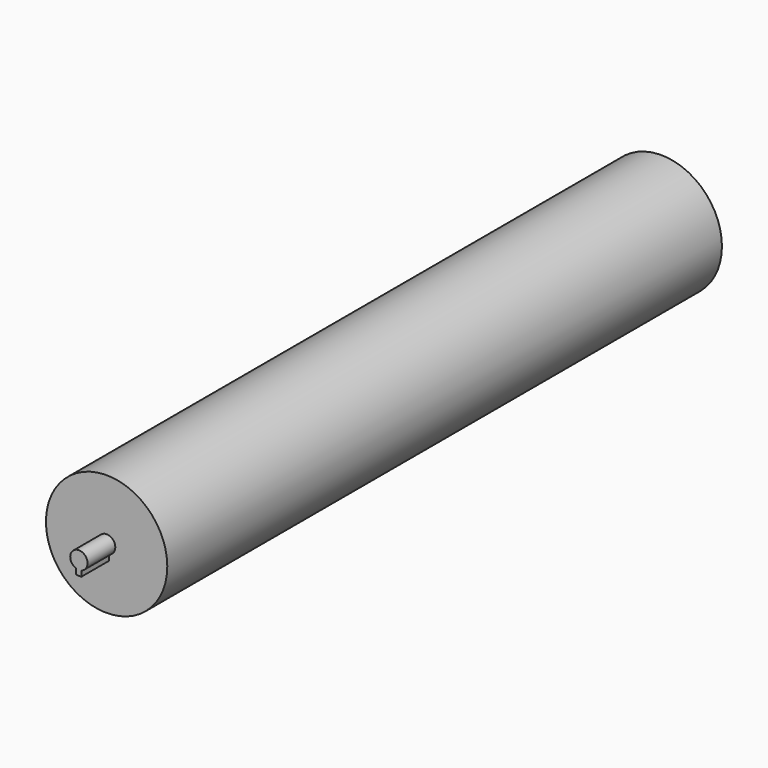
from build123d import *

# Parameters (mm, degrees)
F0_R     = 35
F1_DEPTH = 400
F2_R     = 5
F3_DEPTH = 20
F4_DEPTH = 420
F6_DEPTH = 20
F7_DEPTH = 420


with BuildPart() as f1:
    # F0 (on Front) → F1 (new body)
    with BuildSketch(Plane.XZ):
        Circle(F0_R)
    extrude(amount=F1_DEPTH)

    # F2 (on Front) → F3 (join)
    with BuildSketch(Plane.XZ):
        Circle(F2_R)
    extrude(amount=-F3_DEPTH)

    # F2 (on Front) → F4 (join)
    with BuildSketch(Plane.XZ):
        Circle(F2_R)
    extrude(amount=F4_DEPTH)

    # F5 (on face) → F6 (join, symmetric)
    with BuildSketch(Plane.XZ.offset(400)):
        with BuildLine():
            ThreePointArc((1.3593261446, -4.8116766758), (-0.1474726193, -4.9978247095), (-1.6406738554, -4.723154592))
            Line((-1.6406738554, -4.723154592), (-1.6345586628, -7.9277958721))
            Line((-1.6345586628, -7.9277958721), (1.3655608437, -8.0789448297))
            Line((1.3655608437, -8.0789448297), (1.3593261446, -4.8116766758))
        make_face()
    extrude(amount=F6_DEPTH, both=True)

    # F5 (on face) → F7 (join)
    with BuildSketch(Plane.XZ.offset(400)):
        with BuildLine():
            ThreePointArc((1.3593261446, -4.8116766758), (-0.1474726193, -4.9978247095), (-1.6406738554, -4.723154592))
            Line((-1.6406738554, -4.723154592), (-1.6345586628, -7.9277958721))
            Line((-1.6345586628, -7.9277958721), (1.3655608437, -8.0789448297))
            Line((1.3655608437, -8.0789448297), (1.3593261446, -4.8116766758))
        make_face()
    extrude(amount=-F7_DEPTH)


solid = f1.part
